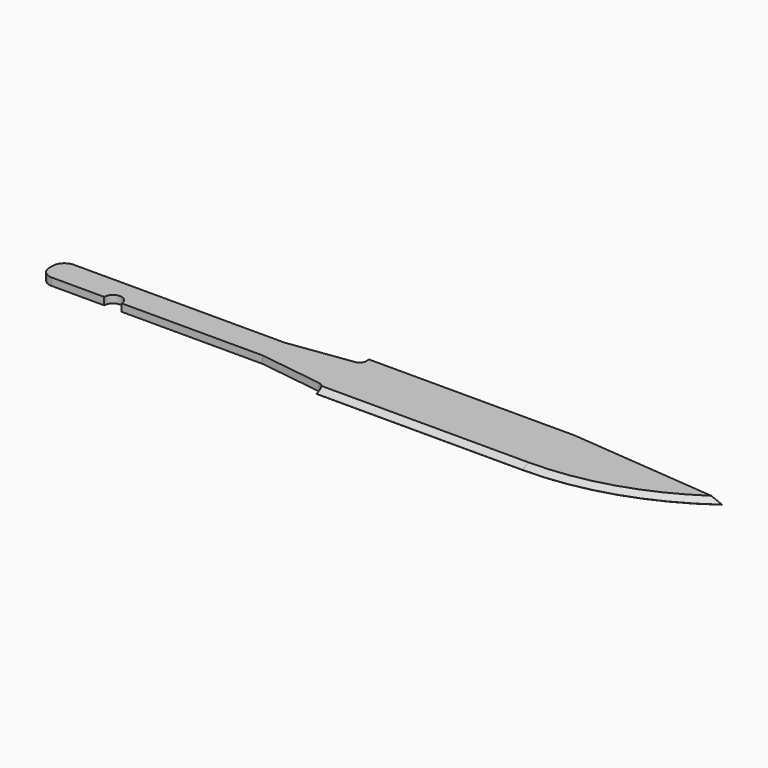
from build123d import *

# Parameters (mm, degrees)
F1_DEPTH = 1.016
F2_SIZE2 = 2
F2_SIZE  = 1
F3_SIZE2 = 1
F3_SIZE  = 2


with BuildPart() as f1:
    # F0 (on Top) → F1 (new body, symmetric)
    with BuildSketch(Plane.XY):
        with BuildLine():
            Line((51.551948, 26.457513), (34.29, 24.0665))
            Line((34.29, 24.0665), (-22.987, 24.0665))
            ThreePointArc((-22.987, 24.0665), (-25.232064, 23.136564), (-26.162, 20.8915))
            Line((-26.162, 20.8915), (-26.162, 19.7485))
            ThreePointArc((-26.162, 19.7485), (-25.232064, 17.503436), (-22.987, 16.5735))
            Line((-22.987, 16.5735), (-8.73125, 16.5735))
            ThreePointArc((-8.73125, 16.5735), (-6.35, 18.95475), (-3.96875, 16.5735))
            Line((-3.96875, 16.5735), (34.29, 16.5735))
            Line((34.29, 16.5735), (51.551948, 14.182487))
            ThreePointArc((51.551948, 14.182487), (52.648713, 13.589108), (53.086, 12.421302))
            Line((53.086, 12.421302), (53.086, 11.43))
            Line((53.086, 11.43), (59.436, 11.43))
            Line((59.436, 11.43), (108.966, 11.43))
            ThreePointArc((108.966, 11.43), (131.577707, 15.010048), (151.977583, 25.4))
            Line((151.977583, 25.4), (108.966, 29.21))
            Line((108.966, 29.21), (59.436, 29.21))
            Line((59.436, 29.21), (53.086, 29.21))
            Line((53.086, 29.21), (53.086, 28.218698))
            ThreePointArc((53.086, 28.218698), (52.648713, 27.050892), (51.551948, 26.457513))
        make_face()
    extrude(amount=F1_DEPTH, both=True)

    # F2
    f2_edges = [f1.edges().sort_by_distance(p)[0] for p in [
        (81.026, 11.43, 1.016),
    ]]
    chamfer(f2_edges, length=F2_SIZE, length2=F2_SIZE2)

    # F3
    f3_edges = [f1.edges().sort_by_distance(p)[0] for p in [
        (81.026, 11.43, -1.016),
    ]]
    chamfer(f3_edges, length=F3_SIZE, length2=F3_SIZE2)


solid = f1.part
